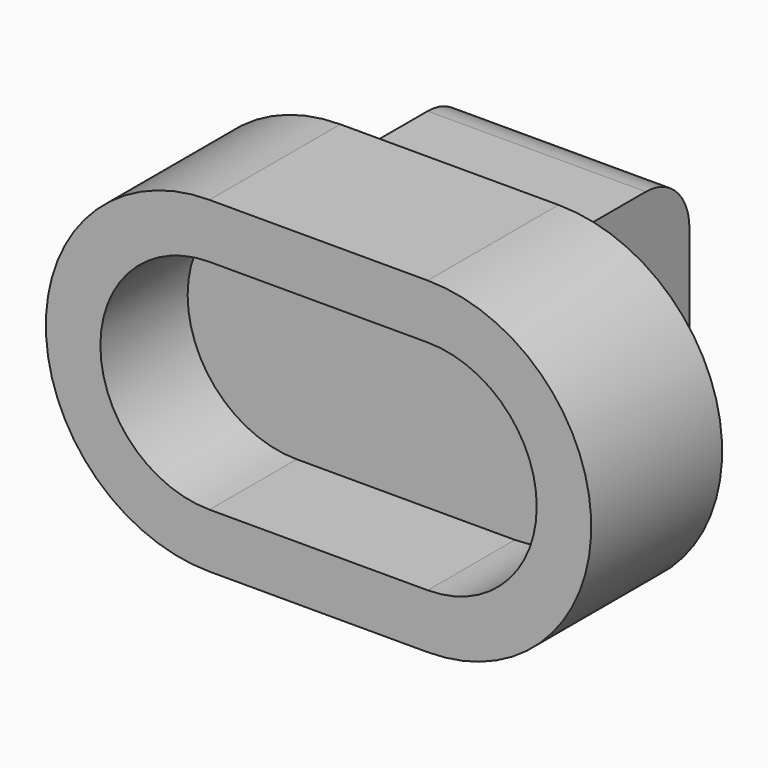
from build123d import *

# Parameters (mm, degrees)
F1_DEPTH = 15
F3_DEPTH = 5
F4_W     = 20
F4_H     = 24
F5_DEPTH = 15
F6_R     = 5
F7_R     = 5
F8_DEPTH = 25


with BuildPart() as f1:
    # F0 (on Front) → F1 (new body)
    with BuildSketch(Plane.XZ):
        with BuildLine():
            Line((-10, -15), (10, -15))
            ThreePointArc((10, -15), (25, 0), (10, 15))
            Line((10, 15), (-10, 15))
            ThreePointArc((-10, 15), (-25, 0), (-10, -15))
        make_face()
        with BuildLine():
            ThreePointArc((-10, -10), (-20, 0), (-10, 10))
            Line((-10, 10), (10, 10))
            ThreePointArc((10, 10), (20, 0), (10, -10))
            Line((10, -10), (-10, -10))
        make_face(mode=Mode.SUBTRACT)
    extrude(amount=F1_DEPTH)

    # F2 (on face) → F3 (join)
    with BuildSketch(Plane(origin=(0, 0, 0), x_dir=(-1, 0, 0), z_dir=(0, 1, 0))):
        with BuildLine():
            ThreePointArc((10, -10), (20, 0), (10, 10))
            Line((10, 10), (-10, 10))
            ThreePointArc((-10, 10), (-20, 0), (-10, -10))
            Line((-10, -10), (10, -10))
        make_face()
    extrude(amount=-F3_DEPTH)

    # F4 (on face) → F5 (join)
    with BuildSketch(Plane(origin=(0, 0, 0), x_dir=(-1, 0, 0), z_dir=(0, 1, 0))):
        Rectangle(F4_W, F4_H)
    extrude(amount=F5_DEPTH)

    # F6
    f6_edges = [f1.edges().sort_by_distance(p)[0] for p in [
        (0, 15, -12),
        (0, 15, 12),
    ]]
    fillet(f6_edges, radius=F6_R)

    # F7 (on face) → F8 (cut)
    with BuildSketch(Plane.YZ.offset(10)):
        with Locations((8, 0)):
            Circle(F7_R)
    extrude(amount=-F8_DEPTH, mode=Mode.SUBTRACT)


solid = f1.part
